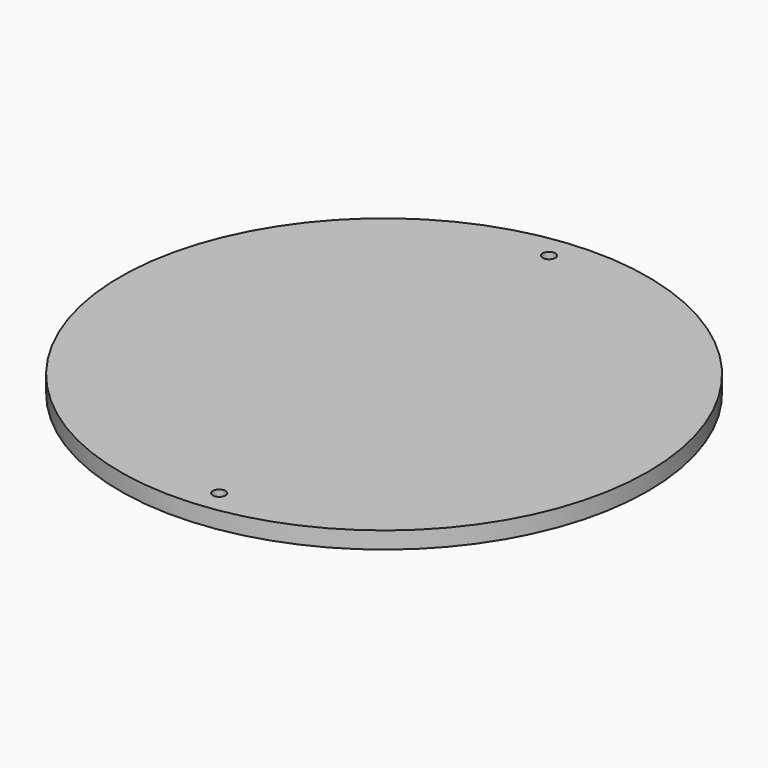
from build123d import *

# Parameters (mm, degrees)
F0_R     = 62.5
F1_DEPTH = 4
F2_R     = 1.5
F3_DEPTH = 4.001
F4_R     = 1.5
F5_DEPTH = 4.001


with BuildPart() as f1:
    # F0 (on Top) → F1 (new body)
    with BuildSketch(Plane.XY):
        Circle(F0_R)
    extrude(amount=F1_DEPTH)

    # F2 (on face) → F3 (cut, through all)
    with BuildSketch(Plane.XY.offset(4)):
        with Locations((-5.9, 56.191102)):
            Circle(F2_R)
    extrude(amount=-F3_DEPTH, mode=Mode.SUBTRACT)

    # F4 (on face) → F5 (cut, through all)
    with BuildSketch(Plane.XY.offset(4)):
        with Locations((5.9, -56.191102)):
            Circle(F4_R)
    extrude(amount=-F5_DEPTH, mode=Mode.SUBTRACT)


solid = f1.part
